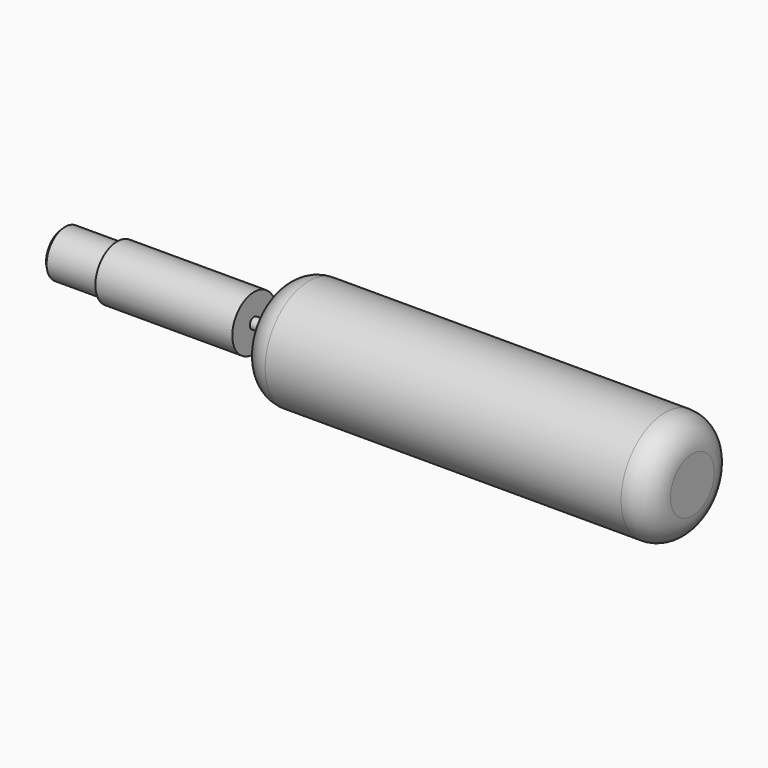
from build123d import *

# Parameters (mm, degrees)
F0_W    = 10
F0_H    = 2
F0_W_2  = 20
F0_H_2  = 8.5
F2_SIZE = 1


with BuildPart() as f1:
    # F0 (on Top) → F1 (revolve)
    with BuildSketch(Plane.XY):
        with BuildLine():
            Line((0, 2), (0, 0))
            Line((0, 0), (150, 0))
            Line((150, 0), (150, 10))
            ThreePointArc((150, 10), (147.071068, 17.071068), (140, 20))
            Line((140, 20), (10, 20))
            ThreePointArc((10, 20), (2.928932, 17.071068), (0, 10))
            Line((0, 10), (0, 2))
        make_face()
        with Locations((-5, 1)):
            Rectangle(F0_W, F0_H)
        Polygon((-60, 0), (-10, 0), (-10, 2), (-10, 10), (-60, 10), (-60, 8.5), align=None)
        with Locations((-70, 4.25)):
            Rectangle(F0_W_2, F0_H_2)
    revolve(axis=Axis((-35, 0, 0), (-1, 0, 0)))

    # F2
    f2_edges = [f1.edges().sort_by_distance(p)[0] for p in [
        (-80, -8.5, 0),
    ]]
    chamfer(f2_edges, length=F2_SIZE)


solid = f1.part
